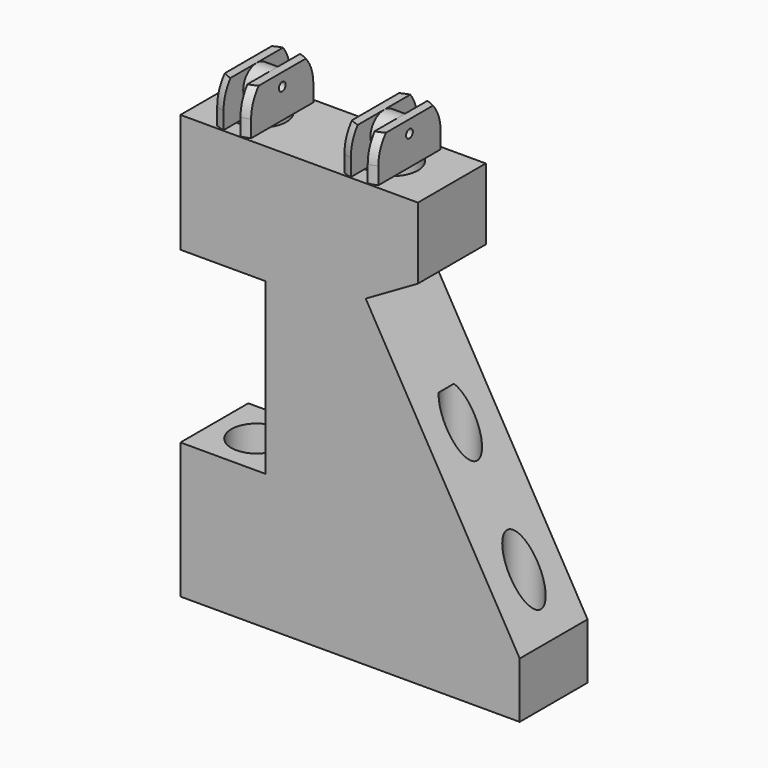
from build123d import *

# Parameters (mm, degrees)
CYLINDER175_R          = 3
CYLINDER175_DEPTH      = 43
CYLINDER174_R          = 2
CYLINDER174_DEPTH      = 30
CYLINDER173_R          = 2
CYLINDER173_DEPTH      = 30
CYLINDER172_R          = 2
CYLINDER172_DEPTH      = 50
CYLINDER171_R          = 2
CYLINDER171_DEPTH      = 15
CYLINDER170_R          = 3
CYLINDER170_DEPTH      = 5
CYLINDER169_R          = 3
CYLINDER169_DEPTH      = 5
CYLINDER165_R          = 0.5
CYLINDER165_DEPTH      = 10
CYLINDER167_R          = 2
CYLINDER167_DEPTH      = 4
CYLINDER168_R          = 3
CYLINDER168_DEPTH      = 10
BOX070_W               = 10
BOX070_H               = 10
BOX070_DEPTH           = 10
BOX071_W               = 2
BOX071_H               = 10
BOX071_DEPTH           = 10
BOX072_W               = 10
BOX072_H               = 10
BOX072_DEPTH           = 10
CYLINDER166_R          = 5
CYLINDER166_DEPTH      = 10
CYLINDER164_R          = 5
CYLINDER164_DEPTH      = 10
CYLINDER160_R          = 0.5
CYLINDER160_DEPTH      = 10
CYLINDER162_R          = 2
CYLINDER162_DEPTH      = 4
CYLINDER163_R          = 3
CYLINDER163_DEPTH      = 10
BOX067_W               = 10
BOX067_H               = 10
BOX067_DEPTH           = 10
BOX068_W               = 2
BOX068_H               = 10
BOX068_DEPTH           = 10
BOX069_W               = 10
BOX069_H               = 10
BOX069_DEPTH           = 10
CYLINDER161_R          = 5
CYLINDER161_DEPTH      = 10
CYLINDER159_R          = 5
CYLINDER159_DEPTH      = 10
BOX066_W               = 10
BOX066_H               = 10
BOX066_DEPTH           = 20
BOX064_W               = 10
BOX064_H               = 10
BOX064_DEPTH           = 20
BOX063_W               = 40
BOX063_H               = 10
BOX063_DEPTH           = 50
BOX063_PLACEMENT_ANGLE = 30
BOX062_W               = 40
BOX062_H               = 10
BOX062_DEPTH           = 50


with BuildPart() as cylinder175:
    # Cylinder175 → Cylinder175 (new body)
    with BuildSketch(Plane(origin=(-93, 0, -100.5), x_dir=(1, 0, 0), z_dir=(0, 0, 1))):
        Circle(CYLINDER175_R)
    extrude(amount=CYLINDER175_DEPTH)


with BuildPart() as cylinder174:
    # Cylinder174 → Cylinder174 (new body)
    with BuildSketch(Plane(origin=(-61.5, 0, -136), x_dir=(1, 0, 0), z_dir=(0, 0, 1))):
        Circle(CYLINDER174_R)
    extrude(amount=CYLINDER174_DEPTH)


with BuildPart() as cylinder173:
    # Cylinder173 → Cylinder173 (new body)
    with BuildSketch(Plane(origin=(-69, 0, -136), x_dir=(1, 0, 0), z_dir=(0, 0, 1))):
        Circle(CYLINDER173_R)
    extrude(amount=CYLINDER173_DEPTH)


with BuildPart() as cylinder172:
    # Cylinder172 → Cylinder172 (new body)
    with BuildSketch(Plane(origin=(-81, 0, -143.5), x_dir=(1, 0, 0), z_dir=(0, 0, 1))):
        Circle(CYLINDER172_R)
    extrude(amount=CYLINDER172_DEPTH)


with BuildPart() as cylinder171:
    # Cylinder171 → Cylinder171 (new body)
    with BuildSketch(Plane(origin=(-92, 0, -91), x_dir=(0, 0, -1), z_dir=(1, 0, 0))):
        Circle(CYLINDER171_R)
    extrude(amount=CYLINDER171_DEPTH)


with BuildPart() as cylinder170:
    # Cylinder170 → Cylinder170 (new body)
    with BuildSketch(Plane(origin=(-77, 0, -89.5), x_dir=(1, 0, 0), z_dir=(0, 0, 1))):
        Circle(CYLINDER170_R)
    extrude(amount=CYLINDER170_DEPTH)


with BuildPart() as cylinder169:
    # Cylinder169 → Cylinder169 (new body)
    with BuildSketch(Plane(origin=(-92.5, 0, -89.5), x_dir=(1, 0, 0), z_dir=(0, 0, 1))):
        Circle(CYLINDER169_R)
    extrude(amount=CYLINDER169_DEPTH)


with BuildPart() as cylinder165:
    # Cylinder165 → Cylinder165 (new body)
    with BuildSketch(Plane(origin=(-5, 0, -7), x_dir=(0, 0, -1), z_dir=(1, 0, 0))):
        Circle(CYLINDER165_R)
    extrude(amount=CYLINDER165_DEPTH)


with BuildPart() as cylinder167:
    # Cylinder167 → Cylinder167 (new body)
    with BuildSketch(Plane(origin=(-2, -50, 1), x_dir=(0, 0, -1), z_dir=(1, 0, 0))):
        Circle(CYLINDER167_R)
    extrude(amount=CYLINDER167_DEPTH)


with BuildPart() as cylinder168:
    # Cylinder168 → Cylinder168 (new body)
    with BuildSketch(Plane(origin=(0, -50, -12), x_dir=(1, 0, 0), z_dir=(0, 0, 1))):
        Circle(CYLINDER168_R)
    extrude(amount=CYLINDER168_DEPTH)


with BuildPart() as cube070:
    # Box070 → Box070 (new body)
    with BuildSketch(Plane(origin=(-12, -55, -2), x_dir=(1, 0, 0), z_dir=(0, 0, 1))):
        with Locations((5, 5)):
            Rectangle(BOX070_W, BOX070_H)
    extrude(amount=BOX070_DEPTH)


with BuildPart() as cube071:
    # Box071 → Box071 (new body)
    with BuildSketch(Plane(origin=(-1, -55, -2), x_dir=(1, 0, 0), z_dir=(0, 0, 1))):
        with Locations((1, 5)):
            Rectangle(BOX071_W, BOX071_H)
    extrude(amount=BOX071_DEPTH)


with BuildPart() as cube072:
    # Box072 → Box072 (new body)
    with BuildSketch(Plane(origin=(2, -55, -2), x_dir=(1, 0, 0), z_dir=(0, 0, 1))):
        with Locations((5, 5)):
            Rectangle(BOX072_W, BOX072_H)
    extrude(amount=BOX072_DEPTH)


with BuildPart() as cylinder166:
    # Cylinder166 → Cylinder166 (new body)
    with BuildSketch(Plane(origin=(0, -50, -10), x_dir=(1, 0, 0), z_dir=(0, 0, 1))):
        Circle(CYLINDER166_R)
    extrude(amount=CYLINDER166_DEPTH)


with BuildPart() as sphere039:
    # Sphere039 → Sphere039 (revolve)
    with BuildSketch(Plane.XZ.offset(50)):
        with BuildLine():
            ThreePointArc((5, 0), (3.535534, 3.535534), (0, 5))
            Line((0, 5), (0, 0))
            Line((0, 0), (5, 0))
        make_face()
    revolve(axis=Axis((0, -50, 0), (0, 0, 1)))


with BuildPart() as cut152:
    # Cylinder164 → Cylinder164 (new body)
    with BuildSketch(Plane(origin=(0, -50, -7), x_dir=(1, 0, 0), z_dir=(0, 0, 1))):
        Circle(CYLINDER164_R)
    extrude(amount=CYLINDER164_DEPTH)

    # Common032: intersect Sphere039
    add(sphere039.part, mode=Mode.INTERSECT)

    # Fusion005074: union Cylinder166
    add(cylinder166.part)

    # Cut151: cut Cube072
    add(cube072.part, mode=Mode.SUBTRACT)

    # Cut153: cut Cube071
    add(cube071.part, mode=Mode.SUBTRACT)

    # Cut154: cut Cube070
    add(cube070.part, mode=Mode.SUBTRACT)

    # Cut155: cut Cylinder168
    add(cylinder168.part, mode=Mode.SUBTRACT)

    # Fusion005075: union Cylinder167
    add(cylinder167.part)


with BuildPart() as cut152_1:
    # Fusion005073 placement: moved
    add(cut152.part.moved(Location((0, 50, -8.5))))

    # Cut152: cut Cylinder165
    add(cylinder165.part, mode=Mode.SUBTRACT)


with BuildPart() as cut152_2:
    # Cut152 placement: moved
    add(cut152_1.part.moved(Location((-77, 0, -74))))


with BuildPart() as cylinder160:
    # Cylinder160 → Cylinder160 (new body)
    with BuildSketch(Plane(origin=(-5, 0, -7), x_dir=(0, 0, -1), z_dir=(1, 0, 0))):
        Circle(CYLINDER160_R)
    extrude(amount=CYLINDER160_DEPTH)


with BuildPart() as cylinder162:
    # Cylinder162 → Cylinder162 (new body)
    with BuildSketch(Plane(origin=(-2, -50, 1), x_dir=(0, 0, -1), z_dir=(1, 0, 0))):
        Circle(CYLINDER162_R)
    extrude(amount=CYLINDER162_DEPTH)


with BuildPart() as cylinder163:
    # Cylinder163 → Cylinder163 (new body)
    with BuildSketch(Plane(origin=(0, -50, -12), x_dir=(1, 0, 0), z_dir=(0, 0, 1))):
        Circle(CYLINDER163_R)
    extrude(amount=CYLINDER163_DEPTH)


with BuildPart() as cube067:
    # Box067 → Box067 (new body)
    with BuildSketch(Plane(origin=(-12, -55, -2), x_dir=(1, 0, 0), z_dir=(0, 0, 1))):
        with Locations((5, 5)):
            Rectangle(BOX067_W, BOX067_H)
    extrude(amount=BOX067_DEPTH)


with BuildPart() as cube068:
    # Box068 → Box068 (new body)
    with BuildSketch(Plane(origin=(-1, -55, -2), x_dir=(1, 0, 0), z_dir=(0, 0, 1))):
        with Locations((1, 5)):
            Rectangle(BOX068_W, BOX068_H)
    extrude(amount=BOX068_DEPTH)


with BuildPart() as cube069:
    # Box069 → Box069 (new body)
    with BuildSketch(Plane(origin=(2, -55, -2), x_dir=(1, 0, 0), z_dir=(0, 0, 1))):
        with Locations((5, 5)):
            Rectangle(BOX069_W, BOX069_H)
    extrude(amount=BOX069_DEPTH)


with BuildPart() as cylinder161:
    # Cylinder161 → Cylinder161 (new body)
    with BuildSketch(Plane(origin=(0, -50, -10), x_dir=(1, 0, 0), z_dir=(0, 0, 1))):
        Circle(CYLINDER161_R)
    extrude(amount=CYLINDER161_DEPTH)


with BuildPart() as sphere038:
    # Sphere038 → Sphere038 (revolve)
    with BuildSketch(Plane.XZ.offset(50)):
        with BuildLine():
            ThreePointArc((5, 0), (3.535534, 3.535534), (0, 5))
            Line((0, 5), (0, 0))
            Line((0, 0), (5, 0))
        make_face()
    revolve(axis=Axis((0, -50, 0), (0, 0, 1)))


with BuildPart() as cut147:
    # Cylinder159 → Cylinder159 (new body)
    with BuildSketch(Plane(origin=(0, -50, -7), x_dir=(1, 0, 0), z_dir=(0, 0, 1))):
        Circle(CYLINDER159_R)
    extrude(amount=CYLINDER159_DEPTH)

    # Common031: intersect Sphere038
    add(sphere038.part, mode=Mode.INTERSECT)

    # Fusion005071: union Cylinder161
    add(cylinder161.part)

    # Cut146: cut Cube069
    add(cube069.part, mode=Mode.SUBTRACT)

    # Cut148: cut Cube068
    add(cube068.part, mode=Mode.SUBTRACT)

    # Cut149: cut Cube067
    add(cube067.part, mode=Mode.SUBTRACT)

    # Cut150: cut Cylinder163
    add(cylinder163.part, mode=Mode.SUBTRACT)

    # Fusion005072: union Cylinder162
    add(cylinder162.part)


with BuildPart() as cut147_1:
    # Fusion005070 placement: moved
    add(cut147.part.moved(Location((0, 50, -8.5))))

    # Cut147: cut Cylinder160
    add(cylinder160.part, mode=Mode.SUBTRACT)


with BuildPart() as cut147_2:
    # Cut147 placement: moved
    add(cut147_1.part.moved(Location((-92, 0, -74))))


with BuildPart() as cube066:
    # Box066 → Box066 (new body)
    with BuildSketch(Plane(origin=(-70, -5, -83.5), x_dir=(0, 0, -1), z_dir=(1, 0, 0))):
        with Locations((5, 5)):
            Rectangle(BOX066_W, BOX066_H)
    extrude(amount=BOX066_DEPTH)


with BuildPart() as cube064:
    # Box064 → Box064 (new body)
    with BuildSketch(Plane(origin=(-98, -5, -118.5), x_dir=(1, 0, 0), z_dir=(0, 0, 1))):
        with Locations((5, 5)):
            Rectangle(BOX064_W, BOX064_H)
    extrude(amount=BOX064_DEPTH)


with BuildPart() as cube063:
    # Box063 → Box063 (new body)
    with BuildSketch(Plane.XY):
        with Locations((20, 5)):
            Rectangle(BOX063_W, BOX063_H)
    extrude(amount=BOX063_DEPTH)


with BuildPart() as cube063_1:
    # Box063 placement: moved
    add(cube063.part.moved(Location((-51.158872, -5, -139.76751))).rotate(Axis((-51.158872, -5, -139.76751), (0, -1, 0)), BOX063_PLACEMENT_ANGLE))


with BuildPart() as cut162:
    # Box062 → Box062 (new body)
    with BuildSketch(Plane(origin=(-98, -5, -134.5), x_dir=(1, 0, 0), z_dir=(0, 0, 1))):
        with Locations((20, 5)):
            Rectangle(BOX062_W, BOX062_H)
    extrude(amount=BOX062_DEPTH)

    # Cut143: cut Cube063
    add(cube063_1.part, mode=Mode.SUBTRACT)

    # Cut144: cut Cube064
    add(cube064.part, mode=Mode.SUBTRACT)

    # Cut145: cut Cube066
    add(cube066.part, mode=Mode.SUBTRACT)

    # Fusion005076: union Cut147
    add(cut147_2.part)

    # Fusion005077: union Cut152
    add(cut152_2.part)

    # Cut156: cut Cylinder169
    add(cylinder169.part, mode=Mode.SUBTRACT)

    # Cut157: cut Cylinder170
    add(cylinder170.part, mode=Mode.SUBTRACT)

    # Cut158: cut Cylinder171
    add(cylinder171.part, mode=Mode.SUBTRACT)

    # Cut159: cut Cylinder172
    add(cylinder172.part, mode=Mode.SUBTRACT)

    # Cut160: cut Cylinder173
    add(cylinder173.part, mode=Mode.SUBTRACT)

    # Cut161: cut Cylinder174
    add(cylinder174.part, mode=Mode.SUBTRACT)


with BuildPart() as cut162_1:
    # Cut161 placement: moved
    add(cut162.part.moved(Location((0, 0, 37))))

    # Cut162: cut Cylinder175
    add(cylinder175.part, mode=Mode.SUBTRACT)


solid = cut162_1.part
